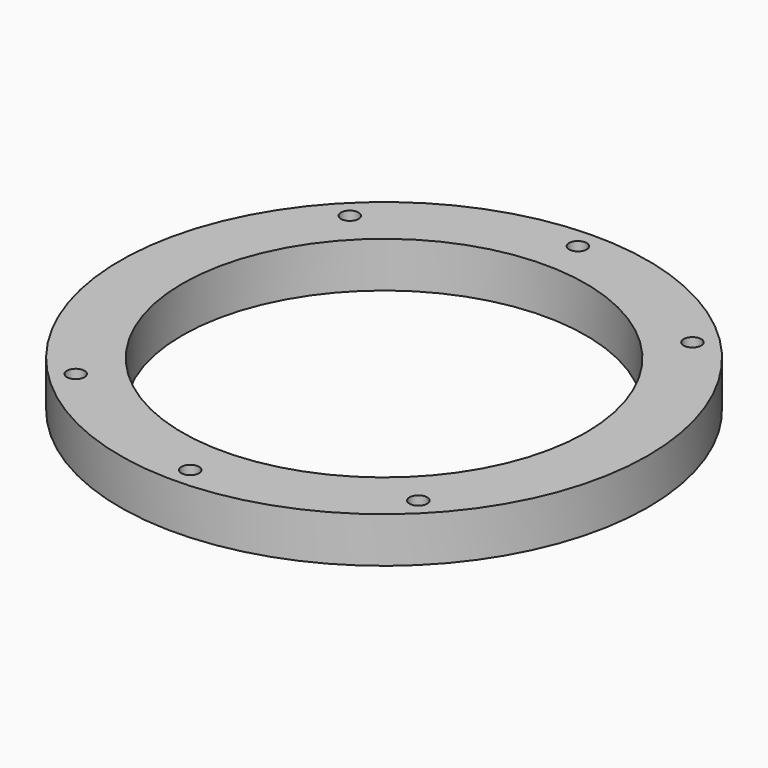
from build123d import *

# Parameters (mm, degrees)
CYLINDER057_R       = 87
CYLINDER057_DEPTH   = 15
CYLINDER058_R       = 66.5
CYLINDER058_DEPTH   = 15
HOLE019_D           = 5.8
HOLE019_DEPTH       = 25
HOLE019_CBORE_D     = 10
HOLE019_CBORE_DEPTH = 5.4


with BuildPart() as part:
    # Cylinder057 → Cylinder057 (join)
    with BuildSketch(Plane.XY):
        Circle(CYLINDER057_R)
    extrude(amount=CYLINDER057_DEPTH)

    # Cylinder058 → Cylinder058 (cut)
    with BuildSketch(Plane.XY):
        Circle(CYLINDER058_R)
    extrude(amount=CYLINDER058_DEPTH, mode=Mode.SUBTRACT)

    # Hole019
    with Locations(Plane(origin=(0, 0, 0), x_dir=(1, 0, 0), z_dir=(0, 0, -1))):
        with Locations((0, -79.861908), (56.470897, -56.470897), (56.470897, 56.470897), (0, 79.861908), (-56.470897, 56.470897), (-56.470897, -56.470897), (0, -79.861908)):
            CounterBoreHole(HOLE019_D / 2, HOLE019_CBORE_D / 2, HOLE019_CBORE_DEPTH, depth=HOLE019_DEPTH)


with BuildPart() as part_1:
    # Body055 placement: moved
    add(part.part.moved(Location((0, 0, -105))))


solid = part_1.part
